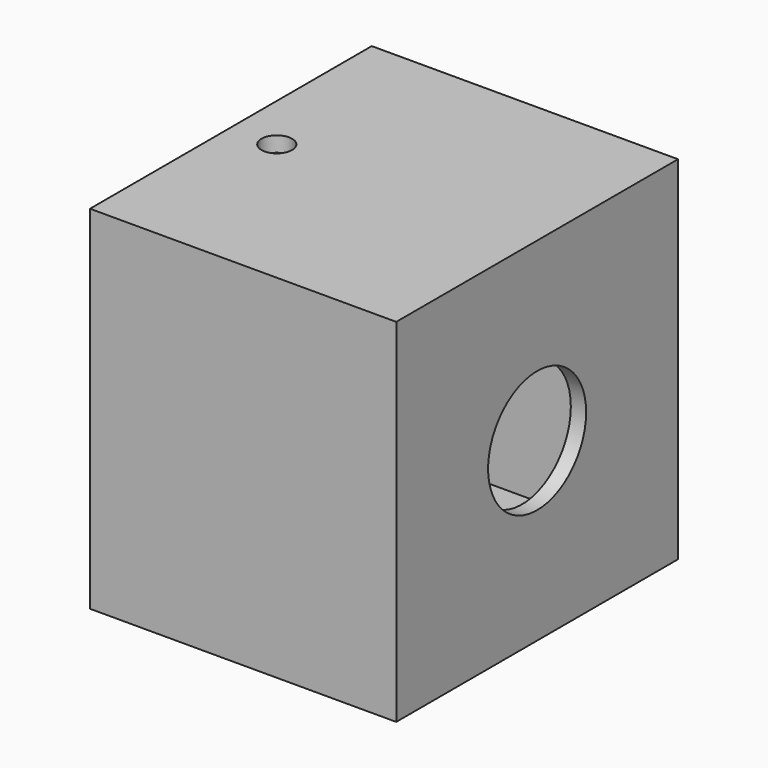
from build123d import *

# Parameters (mm, degrees)
F0_W     = 58.42
F0_H     = 58.42
F1_DEPTH = 50.8
F2_T     = -2.54
F3_R     = 10.16
F4_DEPTH = 25.4
F5_R     = 2.54
F6_DEPTH = 39.116
F7_R     = 2.54
F8_DEPTH = 80.01


with BuildPart() as f1:
    # F0 (on Right) → F1 (new body)
    with BuildSketch(Plane.YZ):
        Rectangle(F0_W, F0_H)
    extrude(amount=F1_DEPTH)

    # F2
    f2_openings = [f1.faces().sort_by_distance(p)[0] for p in [
        (0, 0, 0),
    ]]
    offset(amount=F2_T, openings=f2_openings)

    # F3 (on face) → F4 (cut)
    with BuildSketch(Plane.YZ.offset(50.8)):
        Circle(F3_R)
    extrude(amount=-F4_DEPTH, mode=Mode.SUBTRACT)

    # F5 (on face) → F6 (cut)
    with BuildSketch(Plane(origin=(0, 29.21, 0), x_dir=(-1, 0, 0), z_dir=(0, 1, 0))):
        with Locations((-7.62, 0)):
            Circle(F5_R)
    extrude(amount=-F6_DEPTH, mode=Mode.SUBTRACT)

    # F7 (on face) → F8 (cut)
    with BuildSketch(Plane(origin=(0, 0, -29.21), x_dir=(1, 0, 0), z_dir=(0, 0, -1))):
        with Locations((7.62, 0)):
            Circle(F7_R)
    extrude(amount=-F8_DEPTH, mode=Mode.SUBTRACT)


solid = f1.part
